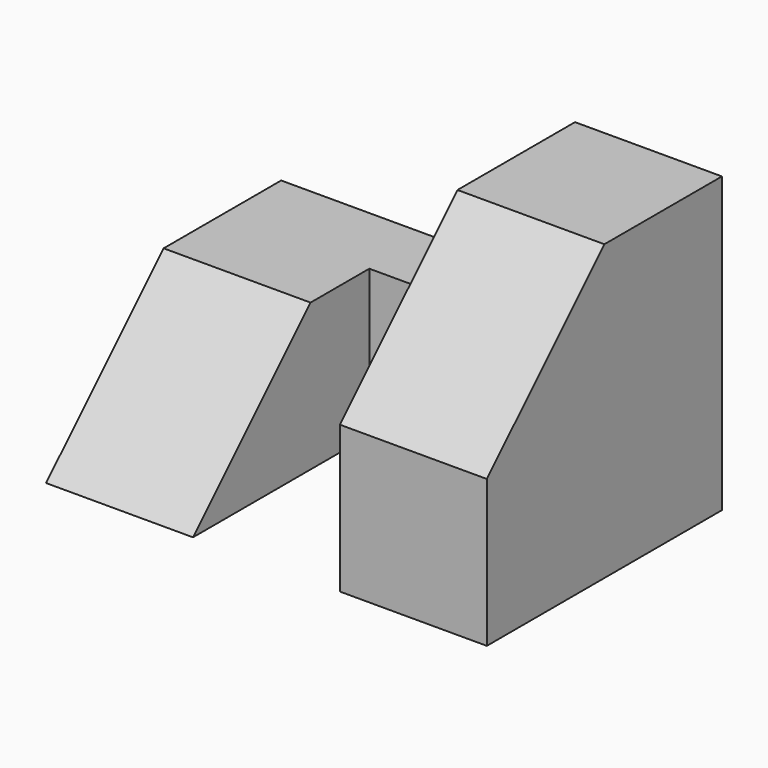
from build123d import *

# Parameters (mm, degrees)
F0_W     = 25.4
F0_H     = 25.4
F1_DEPTH = 12.7
F3_DEPTH = 12.7
F4_W     = 6.35
F4_H     = 12.7
F5_DEPTH = 25.4
F6_W     = 12.7
F6_H     = 12.7
F7_DEPTH = 19.05
F9_DEPTH = 12.7


with BuildPart() as f1:
    # F0 (on Right) → F1 (new body)
    with BuildSketch(Plane.YZ):
        with Locations((12.7, 12.7)):
            Rectangle(F0_W, F0_H)
    extrude(amount=F1_DEPTH)

    # F2 (on face) → F3 (cut)
    with BuildSketch(Plane.YZ.offset(12.7)):
        Polygon((12.7, 25.4), (0, 25.4), (0, 12.7), align=None)
        Polygon((12.7, 25.4), (0, 25.4), (0, 12.7), align=None)
    extrude(amount=-F3_DEPTH, mode=Mode.SUBTRACT)

    # F4 (on face) → F5 (join)
    with BuildSketch(Plane(origin=(0, 0, 0), x_dir=(0, -1, 0), z_dir=(-1, 0, 0))):
        with Locations((-22.225, 6.35)):
            Rectangle(F4_W, F4_H)
    extrude(amount=F5_DEPTH)

    # F6 (on face) → F7 (join)
    with BuildSketch(Plane.XZ.offset(-19.05)):
        with Locations((-19.05, 6.35)):
            Rectangle(F6_W, F6_H)
    extrude(amount=F7_DEPTH)

    # F8 (on face) → F9 (cut)
    with BuildSketch(Plane.YZ.offset(-12.7)):
        Polygon((0, 12.7), (0, 0), (12.7, 12.7), align=None)
    extrude(amount=-F9_DEPTH, mode=Mode.SUBTRACT)


solid = f1.part
